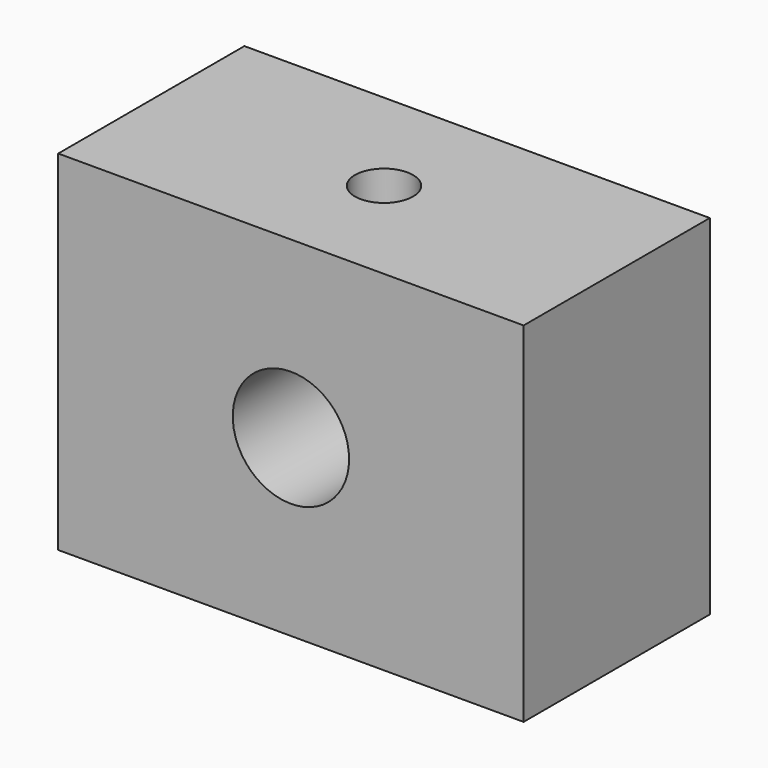
from build123d import *

# Parameters (mm, degrees)
F0_W     = 25.4
F0_H     = 19.05
F0_R     = 3.175
F1_DEPTH = 6.35
F2_R     = 1.5875
F3_DEPTH = 25.4


with BuildPart() as f1:
    # F0 (on Front) → F1 (new body, symmetric)
    with BuildSketch(Plane.XZ):
        Rectangle(F0_W, F0_H)
        Circle(F0_R, mode=Mode.SUBTRACT)
    extrude(amount=F1_DEPTH, both=True)

    # F2 (on Top) → F3 (cut)
    with BuildSketch(Plane.XY):
        Circle(F2_R)
    extrude(amount=F3_DEPTH, mode=Mode.SUBTRACT)


solid = f1.part
